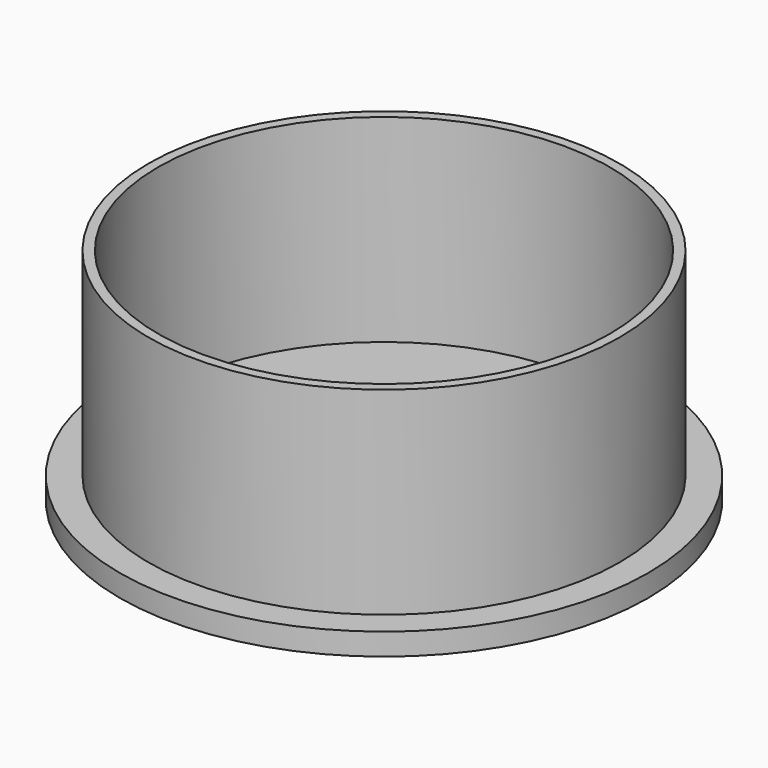
from build123d import *

# Parameters (mm, degrees)
CYLINDER_R        = 60
CYLINDER_DEPTH    = 5
CYLINDER001_R     = 53.5
CYLINDER001_DEPTH = 50
SKETCH001_R       = 51.3
POCKET_DEPTH      = 45


with BuildPart() as part:
    # Cylinder → Cylinder (join)
    with BuildSketch(Plane.XY):
        Circle(CYLINDER_R)
    extrude(amount=CYLINDER_DEPTH)

    # Cylinder001 → Cylinder001 (join)
    with BuildSketch(Plane.XY):
        Circle(CYLINDER001_R)
    extrude(amount=CYLINDER001_DEPTH)

    # Sketch001 (on Face6 of Cylinder001) → Pocket (cut)
    with BuildSketch(Plane.XY.offset(50)):
        Circle(SKETCH001_R)
    extrude(amount=-POCKET_DEPTH, mode=Mode.SUBTRACT)


solid = part.part
